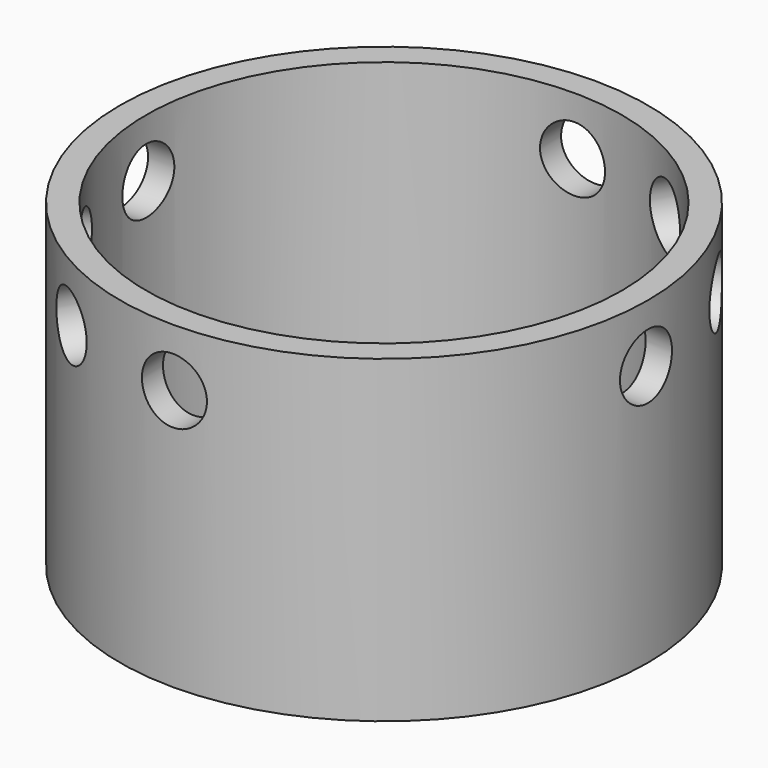
from build123d import *

# Parameters (mm, degrees)
F0_R     = 22.75
F0_R_2   = 20.5
F1_DEPTH = 27.5
F2_R     = 2.8
F3_DEPTH = 25
F4_COUNT = 4
F4_ANGLE = 90


with BuildPart() as f1:
    # F0 (on Top) → F1 (new body)
    with BuildSketch(Plane.XY):
        Circle(F0_R)
        Circle(F0_R_2, mode=Mode.SUBTRACT)
    extrude(amount=F1_DEPTH)


with BuildPart() as f3:
    # F2 (on Right) → F3 (new body, symmetric)
    with BuildSketch(Plane.YZ):
        with Locations((0, 22.5)):
            Circle(F2_R)
    extrude(amount=F3_DEPTH, both=True)


with BuildPart() as f4_1:
    # F4: instance of F3
    add(f3.part.rotate(Axis((0, 0, 0), (0, 0, 1)), 1 * F4_ANGLE / (F4_COUNT - 1)))


with BuildPart() as f4_2:
    # F4: instance of F3
    add(f3.part.rotate(Axis((0, 0, 0), (0, 0, 1)), 2 * F4_ANGLE / (F4_COUNT - 1)))


with BuildPart() as f4_3:
    # F4: instance of F3
    add(f3.part.rotate(Axis((0, 0, 0), (0, 0, 1)), 3 * F4_ANGLE / (F4_COUNT - 1)))


with BuildPart() as f1_1:
    add(f1.part)

    # F5: cut F4_3, F4_2, F4_1, F3
    add(f4_3.part, mode=Mode.SUBTRACT)
    add(f4_2.part, mode=Mode.SUBTRACT)
    add(f4_1.part, mode=Mode.SUBTRACT)
    add(f3.part, mode=Mode.SUBTRACT)


solid = f1_1.part
